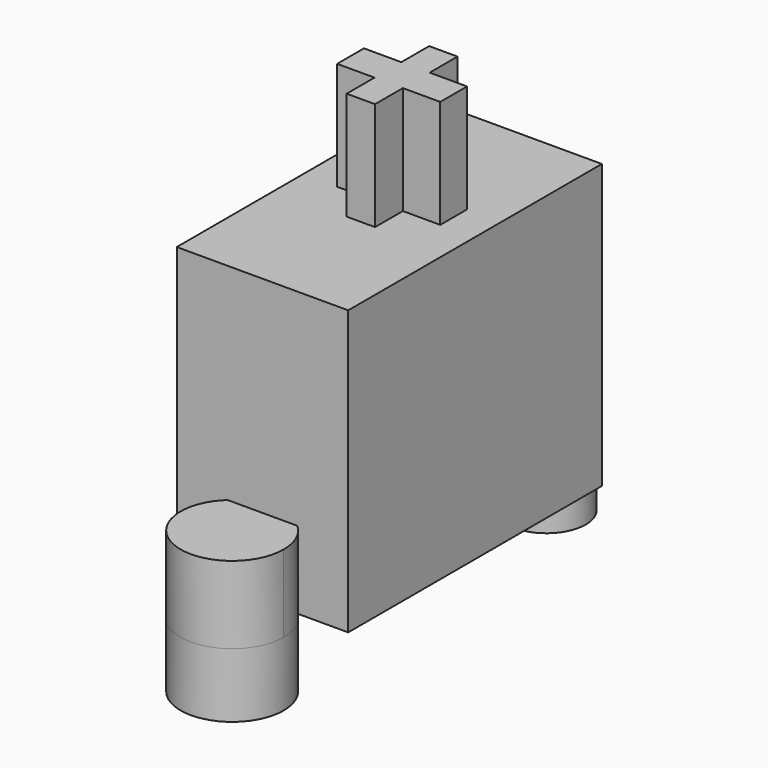
from build123d import *

# Parameters (mm, degrees)
F0_W          = 6.65
F0_H          = 12.3
F1_DEPTH      = 11
F2_R          = 1.525
F2_R_2        = 2
F3_DEPTH      = 2.5
F3_DEPTH_BACK = 3
F5_W          = 1.1
F5_H          = 1.35
F5_W_2        = 1.45
F5_H_2        = 1.3
F6_DEPTH      = 4.2


with BuildPart() as f1:
    # F0 (on Top) → F1 (new body)
    with BuildSketch(Plane.XY):
        with Locations((0, -0.62)):
            Rectangle(F0_W, F0_H)
    extrude(amount=F1_DEPTH)

    # F2 (on Top) → F3 (join, two sides)
    with BuildSketch(Plane.XY) as f3_sk:
        with Locations((0, 7)):
            Circle(F2_R)
        with Locations((0, -8.24)):
            Circle(F2_R_2)
    extrude(amount=-F3_DEPTH)
    extrude(f3_sk.sketch, amount=F3_DEPTH_BACK)

    # F5 (on face) → F6 (join, through all)
    with BuildSketch(Plane.XY.offset(11)):
        with Locations((0, 1.325)):
            Rectangle(F5_W, F5_H)
        with Locations((1.275, 0)):
            Rectangle(F5_W_2, F5_H_2)
        Rectangle(F5_W, F5_H_2)
        with Locations((-1.275, 0)):
            Rectangle(F5_W_2, F5_H_2)
        with Locations((0, -1.325)):
            Rectangle(F5_W, F5_H)
    extrude(amount=F6_DEPTH)


solid = f1.part
